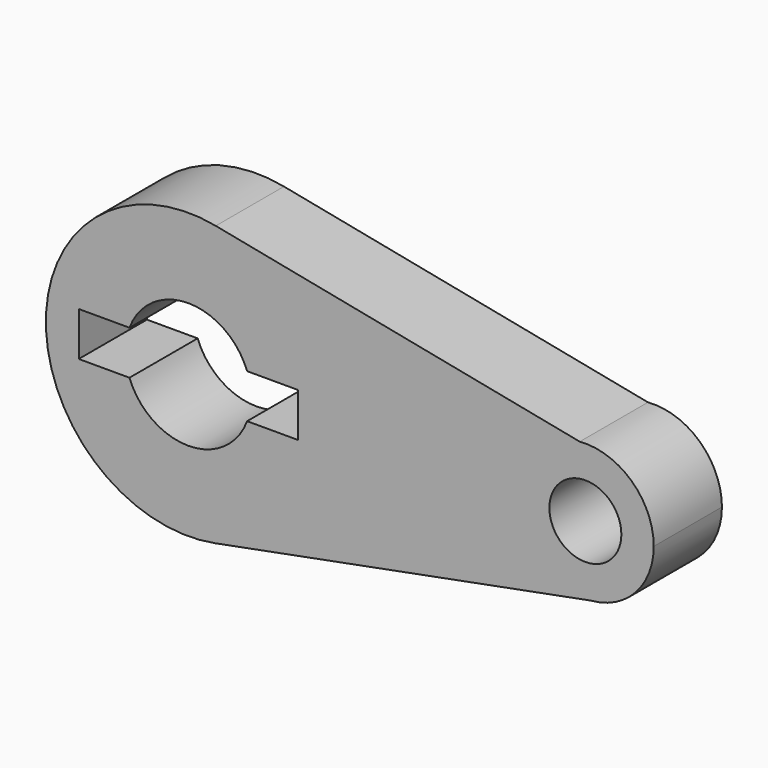
from build123d import *

# Parameters (mm, degrees)
F0_R     = 10.726331
F1_DEPTH = 25.4


with BuildPart() as f1:
    # F0 (on Front) → F1 (new body)
    with BuildSketch(Plane.XZ):
        with BuildLine():
            ThreePointArc((7.956777, -41.693267), (32.706039, -27.054646), (42.445716, 0))
            ThreePointArc((42.445716, 0), (32.782846, 26.961525), (8.193788, 41.647337))
            ThreePointArc((8.193788, 41.647337), (-42.445545, 0.12071), (7.956777, -41.693267))
        make_face()
        with BuildLine():
            ThreePointArc((-17.529767, 6.558197), (0, 18.716375), (17.529767, 6.558197))
            Line((17.529767, 6.558197), (32.645244, 6.558197))
            Line((32.645244, 6.558197), (32.645244, -6.558197))
            Line((32.645244, -6.558197), (17.529767, -6.558197))
            ThreePointArc((17.529767, -6.558197), (0, -18.716375), (-17.529767, -6.558197))
            Line((-17.529767, -6.558197), (-32.645244, -6.558197))
            Line((-32.645244, -6.558197), (-32.645244, 6.558197))
            Line((-32.645244, 6.558197), (-17.529767, 6.558197))
        make_face(mode=Mode.SUBTRACT)
        with BuildLine():
            ThreePointArc((8.193788, 41.647337), (32.782846, 26.961525), (42.445716, 0))
            ThreePointArc((42.445716, 0), (32.706039, -27.054646), (7.956777, -41.693267))
            Line((7.956777, -41.693267), (120.017895, -20.307433))
            ThreePointArc((120.017895, -20.307433), (98.031585, -1.678883), (116.660129, 20.307432))
            Line((116.660129, 20.307432), (8.193788, 41.647337))
        make_face()
        with BuildLine():
            ThreePointArc((138.71573, 0), (132.141195, 14.990341), (116.660129, 20.307432))
            ThreePointArc((116.660129, 20.307432), (98.031585, -1.678883), (120.017895, -20.307433))
            ThreePointArc((120.017895, -20.307433), (133.329355, -13.802181), (138.71573, 0))
        make_face()
        with Locations((118.339017, 0)):
            Circle(F0_R, mode=Mode.SUBTRACT)
    extrude(amount=F1_DEPTH)


solid = f1.part
